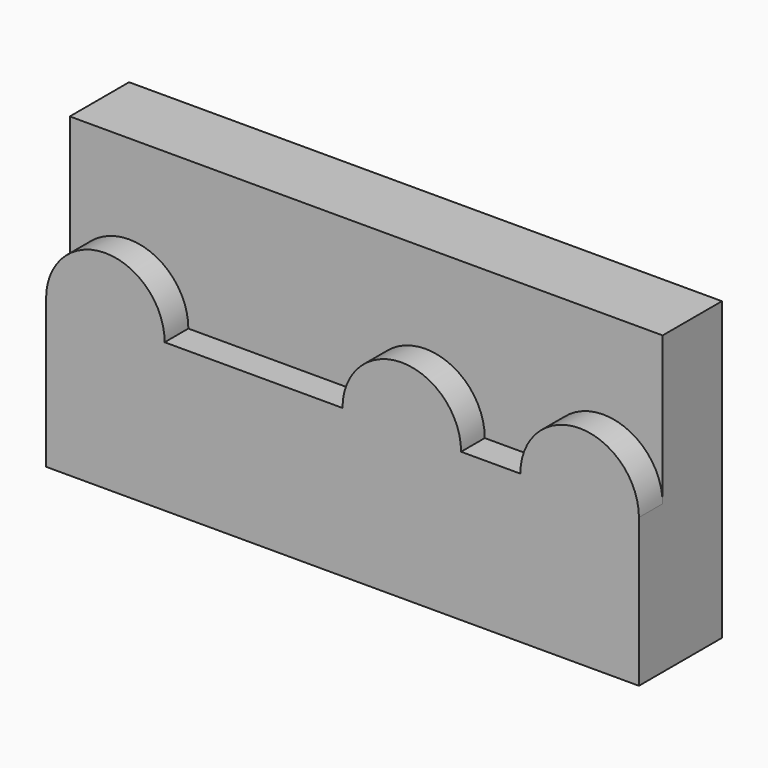
from build123d import *

# Parameters (mm, degrees)
F0_W     = 100
F0_H     = 50
F1_DEPTH = 12.5
F3_DEPTH = 5


with BuildPart() as f1:
    # F0 (on Front) → F1 (new body)
    with BuildSketch(Plane.XZ):
        with Locations((50, 25)):
            Rectangle(F0_W, F0_H)
    extrude(amount=F1_DEPTH)

    # F2 (on face) → F3 (join)
    with BuildSketch(Plane.XZ.offset(12.5)):
        Polygon((20, 25), (0, 25), (0, 0), (100, 0), (100, 25), (80, 25), (70, 25), (50, 25), align=None)
        with BuildLine():
            ThreePointArc((20, 25), (10, 35), (0, 25))
            Line((0, 25), (20, 25))
        make_face()
        with BuildLine():
            ThreePointArc((70, 25), (60, 35), (50, 25))
            Line((50, 25), (70, 25))
        make_face()
        with BuildLine():
            Line((80, 25), (100, 25))
            ThreePointArc((100, 25), (90, 35), (80, 25))
        make_face()
    extrude(amount=F3_DEPTH)


solid = f1.part
